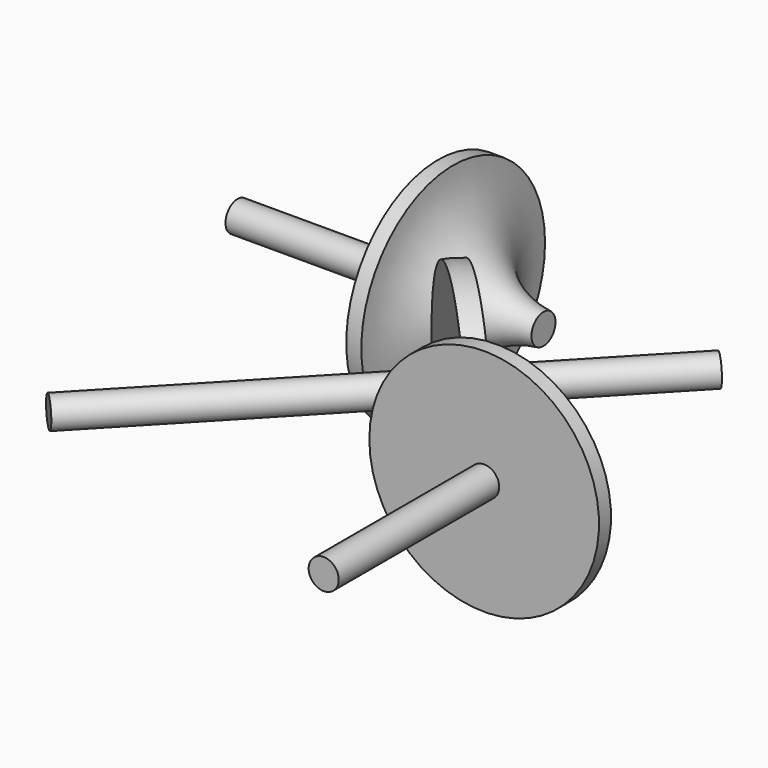
from build123d import *

# Parameters (mm, degrees)
F0_W          = 3
F0_H          = 40
F4_COUNT      = 2
F4_ANGLE      = 270
F8_R          = 3
F9_DEPTH      = 42.5
F9_DEPTH_BACK = 62.9


with BuildPart() as f1:
    # F0 (on Top) → F1 (revolve)
    with BuildSketch(Plane.XY):
        with BuildLine():
            Line((25, 5), (25, 2))
            Line((25, 2), (41.6355423322, 2))
            Line((41.6355423322, 2), (44.8997487421, 2))
            Line((44.8997487421, 2), (47.8997487421, 2))
            Line((47.8997487421, 2), (47.8997487421, 23))
            Line((47.8997487421, 23), (44.8997487421, 23))
            ThreePointArc((44.8997487421, 23), (38.416407865, 10.1676030258), (25, 5))
        make_face()
        with Locations((46.3997487421, -18)):
            Rectangle(F0_W, F0_H)
    revolve(axis=Axis((47.8997487421, -7.5, 0), (0, -1, 0)))


with BuildPart() as f4_1:
    # F4: instance of F1
    add(f1.part.rotate(Axis((47.8997487421, 44.8997487421, 21.236717701), (0, 0, 1)), 1 * F4_ANGLE / (F4_COUNT - 1)))


with BuildPart() as f4_1_1:
    # F5: moved
    add(f4_1.part.moved(Location((-3, 3, 0))))


with BuildPart() as f7:
    # F6 (on Top) → F7 (revolve)
    with BuildSketch(Plane.XY):
        with BuildLine():
            Line((9.2330599769, 37.2235889752), (10.3328329904, 36.1785280287))
            Line((10.3328329904, 36.1785280287), (23.6404321467, 23.5329620822))
            Line((23.6404321467, 23.5329620822), (26.3958132729, 26.4325956537))
            Line((26.3958132729, 26.4325956537), (11.9884411031, 40.1232225467))
            ThreePointArc((11.9884411031, 40.1232225467), (10.5380775618, 38.7424633669), (9.2330599769, 37.2235889752))
        make_face()
    revolve(axis=Axis((25.0181227098, 24.982778868, 0), (-0.6888452815, -0.7249083929, 0)))

    # F8 (on face) → F9 (join, two sides)
    with BuildSketch(Plane(origin=(22.9687481347, 24.1712308164, 0), x_dir=(0.7249083929, -0.6888452815, 0), z_dir=(-0.6888452815, -0.7249083929, 0))) as f9_sk:
        with Locations((0.9265777836, 0)):
            Circle(F8_R)
    extrude(amount=-F9_DEPTH)
    extrude(f9_sk.sketch, amount=F9_DEPTH_BACK)


solid = Compound([f1.part, f4_1_1.part, f7.part])
